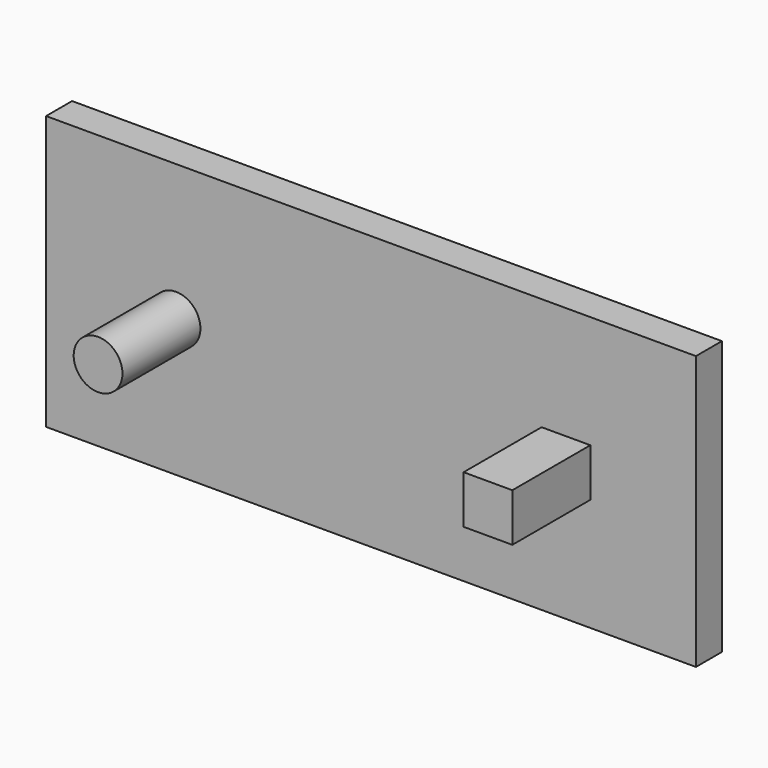
from build123d import *

# Parameters (mm, degrees)
F0_W     = 127
F0_H     = 53.482489
F0_R     = 4.7625
F0_W_2   = 9.525
F0_H_2   = 9.398
F1_DEPTH = 6.35
F2_DEPTH = 25.4


with BuildPart() as f1:
    # F0 (on Front) → F1 (new body)
    with BuildSketch(Plane.XZ):
        with Locations((-25.810427, 9.097536)):
            Rectangle(F0_W, F0_H)
        with Locations((-63.910427, 9.097537)):
            Circle(F0_R, mode=Mode.SUBTRACT)
        with Locations((12.289573, 9.097537)):
            Rectangle(F0_W_2, F0_H_2, mode=Mode.SUBTRACT)
        with Locations((-63.910427, 9.097537)):
            Circle(F0_R)
        with Locations((12.289573, 9.097537)):
            Rectangle(F0_W_2, F0_H_2)
    extrude(amount=F1_DEPTH)


with BuildPart() as f2:
    # F0 (on Front) → F2 (new body)
    with BuildSketch(Plane.XZ):
        with Locations((-63.910427, 9.097537)):
            Circle(F0_R)
        with Locations((12.289573, 9.097537)):
            Rectangle(F0_W_2, F0_H_2)
    extrude(amount=F2_DEPTH)


solid = Compound([f1.part, f2.part])
